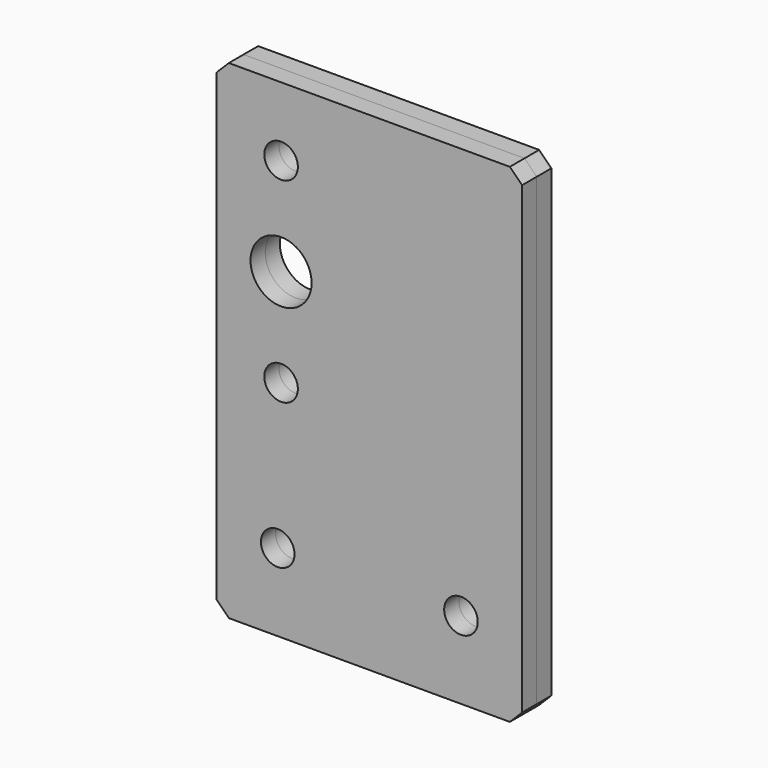
from build123d import *

# Parameters (mm, degrees)
F0_W     = 50
F0_H     = 80
F1_DEPTH = 1.5
F3_D     = 5.5
F4_D     = 3.2
F5_SIZE  = 2
F6_D     = 5.5
F7_D     = 10
F2_W     = 50
F2_H     = 80
F8_DEPTH = 3
F9_SIZE  = 2
F10_D    = 5.5
F11_D    = 5.5
F12_D    = 10


with BuildPart() as f1:
    # F0 (on Front) → F1 (new body, symmetric)
    with BuildSketch(Plane.XZ):
        Rectangle(F0_W, F0_H)
    extrude(amount=F1_DEPTH, both=True)

    # F3 (through all)
    with Locations(Plane.XZ.offset(1.5)):
        with Locations((-15, -27.3), (15, -27.3)):
            Hole(F3_D / 2)

    # F4 (through all)
    with Locations(Plane.XZ.offset(1.5)):
        with Locations((20.55, 28.2), (20.55, -2.8)):
            Hole(F4_D / 2)

    # F5
    f5_edges = [f1.edges().sort_by_distance(p)[0] for p in [
        (-25, 0, 40),
        (-25, 0, -40),
        (25, 0, 40),
        (25, 0, -40),
    ]]
    chamfer(f5_edges, length=F5_SIZE)

    # F6 (through all)
    with Locations(Plane.XZ.offset(1.5)):
        with Locations((-14.45, 28.7), (-14.45, -3.3)):
            Hole(F6_D / 2)

    # F7 (through all)
    with Locations(Plane.XZ.offset(1.5)):
        with Locations((-14.45, 12.7)):
            Hole(F7_D / 2)


with BuildPart() as f8:
    # F2 (on face) → F8 (new body)
    with BuildSketch(Plane.XZ.offset(1.5)):
        Rectangle(F2_W, F2_H)
    extrude(amount=F8_DEPTH)

    # F9
    f9_edges = [f8.edges().sort_by_distance(p)[0] for p in [
        (25, -3, 40),
        (-25, -3, 40),
        (25, -3, -40),
        (-25, -3, -40),
    ]]
    chamfer(f9_edges, length=F9_SIZE)

    # F10 (through all)
    with Locations(Plane(origin=(0, -1.5, 0), x_dir=(1, 0, 0), z_dir=(0, 1, 0))):
        with Locations((15, 27.3), (-15, 27.3)):
            Hole(F10_D / 2)

    # F11 (through all)
    with Locations(Plane(origin=(0, -1.5, 0), x_dir=(1, 0, 0), z_dir=(0, 1, 0))):
        with Locations((-14.45, -28.7), (-14.45, 3.3)):
            Hole(F11_D / 2)

    # F12 (through all)
    with Locations(Plane(origin=(0, -1.5, 0), x_dir=(1, 0, 0), z_dir=(0, 1, 0))):
        with Locations((-14.45, -12.7)):
            Hole(F12_D / 2)


solid = Compound([f1.part, f8.part])
